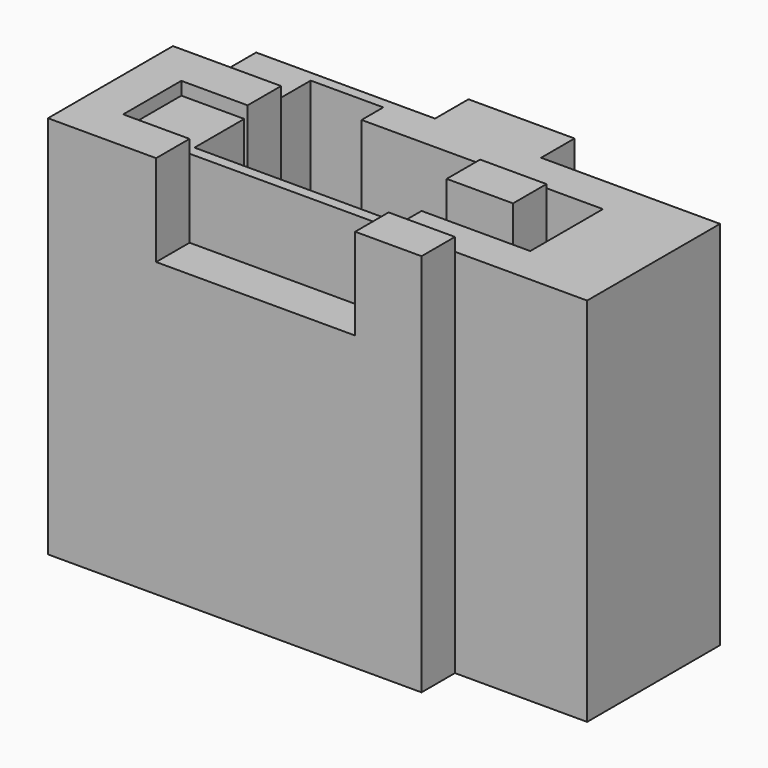
from build123d import *

# Parameters (mm, degrees)
PAD_DEPTH       = 13.1
SKETCH001_W     = 7.62
SKETCH001_H     = 5.98
POCKET_DEPTH    = 3.501
PAD001_DEPTH    = 1.6
PAD002_DEPTH    = 14.2
SKETCH004_W     = 11.1
SKETCH004_H     = 3.48
POCKET001_DEPTH = 6.501
POCKET002_DEPTH = 14.201


with BuildPart() as a:
    # Sketch → Pad (new body)
    with BuildSketch(Plane.XY):
        Polygon((0, 0), (12.7, 0), (12.7, -1.6), (-1.6, -1.6), (-1.6, 4.38), (12.7, 4.38), (12.7, 2.78), (0, 2.78), align=None)
    extrude(amount=PAD_DEPTH)

    # Sketch001 → Pocket (cut, through all)
    with BuildSketch(Plane.XY.offset(9.6)):
        with Locations((6.35, 1.39)):
            Rectangle(SKETCH001_W, SKETCH001_H)
    extrude(amount=POCKET_DEPTH, mode=Mode.SUBTRACT)

    # Sketch002 → Pad001 (join)
    with BuildSketch(Plane.XY):
        with BuildLine():
            Line((-1.6, 4.38), (12.7, 4.38))
            Line((12.7, 4.38), (12.7, 2.392))
            Line((1.002, 2.392), (12.7, 2.392))
            ThreePointArc((1.002, 2.392), (0, 1.39), (1.002, 0.388))
            Line((12.7, 0.388), (1.002, 0.388))
            Line((12.7, 0.388), (12.7, -1.6))
            Line((12.7, -1.6), (-1.6, -1.6))
            Line((-1.6, -1.6), (-1.6, 4.38))
        make_face()
    extrude(amount=-PAD001_DEPTH)


with BuildPart() as a_1:
    # Body placement: moved
    add(a.part.moved(Location((0, 0, 1.6))))


with BuildPart() as b:
    # Sketch003 → Pad002 (new body)
    with BuildSketch(Plane.XY):
        Polygon((0, 0), (17.76, 0), (17.76, 6.36), (10.91, 6.36), (10.91, 7.96), (6.85, 7.96), (6.85, 6.36), (0, 6.36), align=None)
    extrude(amount=PAD002_DEPTH)

    # Sketch004 → Pocket001 (cut, through all)
    with BuildSketch(Plane.XY.offset(7.7)):
        with Locations((8.88, 3.18)):
            Rectangle(SKETCH004_W, SKETCH004_H)
    extrude(amount=POCKET001_DEPTH, mode=Mode.SUBTRACT)

    # Sketch005 → Pocket002 (cut, through all)
    with BuildSketch(Plane.XY):
        Polygon((2.41, 5.96), (5.19, 5.96), (5.19, 3.18), (10.27, 3.18), (10.27, 0.4), (2.41, 0.4), align=None)
    extrude(amount=POCKET002_DEPTH, mode=Mode.SUBTRACT)


solid = Compound([a_1.part, b.part])
